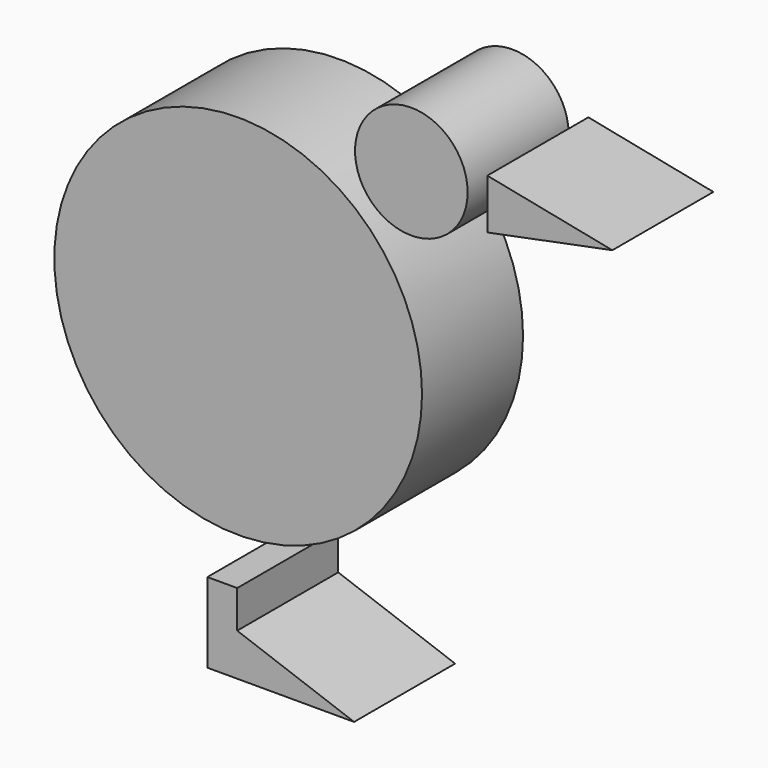
from build123d import *

# Parameters (mm, degrees)
F0_R     = 36.982272
F0_R_2   = 11.323978
F1_DEPTH = 25.4


with BuildPart() as f1:
    # F0 (on Front) → F1 (new body)
    with BuildSketch(Plane.XZ):
        with Locations((-23.316095, -4.740617)):
            Circle(F0_R)
        with Locations((11.512927, 33.958293)):
            Circle(F0_R_2)
        Polygon((51.95329, 33.184316), (26.798995, 38.215175), (26.798995, 28.153457), align=None)
        Polygon((-23.50959, -51.179312), (-29.50792, -51.179312), (-29.50792, -67.239359), (-23.50959, -67.239359), (0, -67.239359), (-23.50959, -58.725599), align=None)
    extrude(amount=F1_DEPTH)


solid = f1.part
